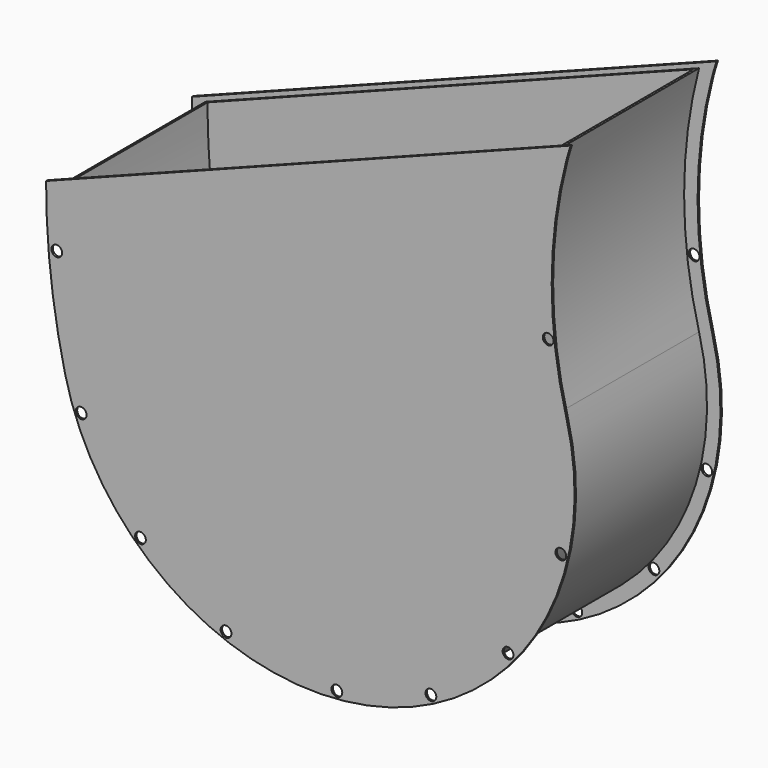
from build123d import *

# Parameters (mm, degrees)
F1_DEPTH = 130.175
F2_T     = -2.54
F0_R     = 3.81
F3_DEPTH = 1.27


with BuildPart() as f1:
    # F0 (on Front) → F1 (new body)
    with BuildSketch(Plane.XZ):
        with BuildLine():
            ThreePointArc((-179.94042, 32.1801), (-175.54974, -3.808035), (-168.499008, -39.370812))
            ThreePointArc((-168.499008, -39.370812), (41.747481, -167.321401), (167.244505, 44.398783))
            ThreePointArc((167.244505, 44.398783), (156.678782, 126.446336), (167.244505, 208.493888))
            Line((167.244505, 208.493888), (-181.670055, 74.106991))
            ThreePointArc((-181.670055, 74.106991), (-181.301912, 54.266409), (-180.127338, 34.457204))
            ThreePointArc((-180.127338, 34.457204), (-179.917292, 33.752862), (-179.846398, 33.021294))
            ThreePointArc((-179.846398, 33.021294), (-179.869976, 32.598078), (-179.94042, 32.1801))
        make_face()
    extrude(amount=F1_DEPTH)

    # F2
    f2_openings = [f1.faces().sort_by_distance(p)[0] for p in [
        (-7.212775, -65.0875, 141.30044),
    ]]
    offset(amount=F2_T, openings=f2_openings)

    # F0 (on Front) → F3 (join)
    with BuildSketch(Plane.XZ):
        with BuildLine():
            ThreePointArc((-191.19504, 74.123976), (-187.878519, 15.883128), (-177.76688, -41.56903))
            ThreePointArc((-177.76688, -41.56903), (44.053325, -176.563085), (176.458749, 46.81194))
            ThreePointArc((176.458749, 46.81194), (166.203782, 126.446336), (176.458749, 206.080731))
            ThreePointArc((176.458749, 206.080731), (177.970177, 211.454842), (179.674253, 216.771007))
            Line((179.674253, 216.771007), (-191.19504, 74.123976))
        make_face()
        with Locations((-124.498114, -126.301363)):
            Circle(F0_R, mode=Mode.SUBTRACT)
        with Locations((-63.980319, -164.931968)):
            Circle(F0_R, mode=Mode.SUBTRACT)
        with Locations((-166.418388, -62.232696)):
            Circle(F0_R, mode=Mode.SUBTRACT)
        with Locations((14.358005, -176.30595)):
            Circle(F0_R, mode=Mode.SUBTRACT)
        with Locations((80.824465, -157.232255)):
            Circle(F0_R, mode=Mode.SUBTRACT)
        with Locations((135.350421, -113.461576)):
            Circle(F0_R, mode=Mode.SUBTRACT)
        with Locations((172.669113, -39.752249)):
            Circle(F0_R, mode=Mode.SUBTRACT)
        with BuildLine():
            ThreePointArc((167.244505, 44.398783), (41.747481, -167.321401), (-168.499008, -39.370812))
            ThreePointArc((-168.499008, -39.370812), (-175.54974, -3.808035), (-179.94042, 32.1801))
            ThreePointArc((-179.94042, 32.1801), (-187.453626, 32.709595), (-180.127338, 34.457204))
            ThreePointArc((-180.127338, 34.457204), (-181.301912, 54.266409), (-181.670055, 74.106991))
            Line((-181.670055, 74.106991), (167.244505, 208.493888))
            ThreePointArc((167.244505, 208.493888), (156.678782, 126.446336), (167.244505, 44.398783))
        make_face(mode=Mode.SUBTRACT)
        with Locations((163.721606, 91.117166)):
            Circle(F0_R, mode=Mode.SUBTRACT)
    extrude(amount=F3_DEPTH)

    # F5: F1 across plane


with BuildPart() as f1_1:
    add(f1.part)
    add(f1.part.mirror(Plane.XZ.offset(65.0875)))


solid = f1_1.part
